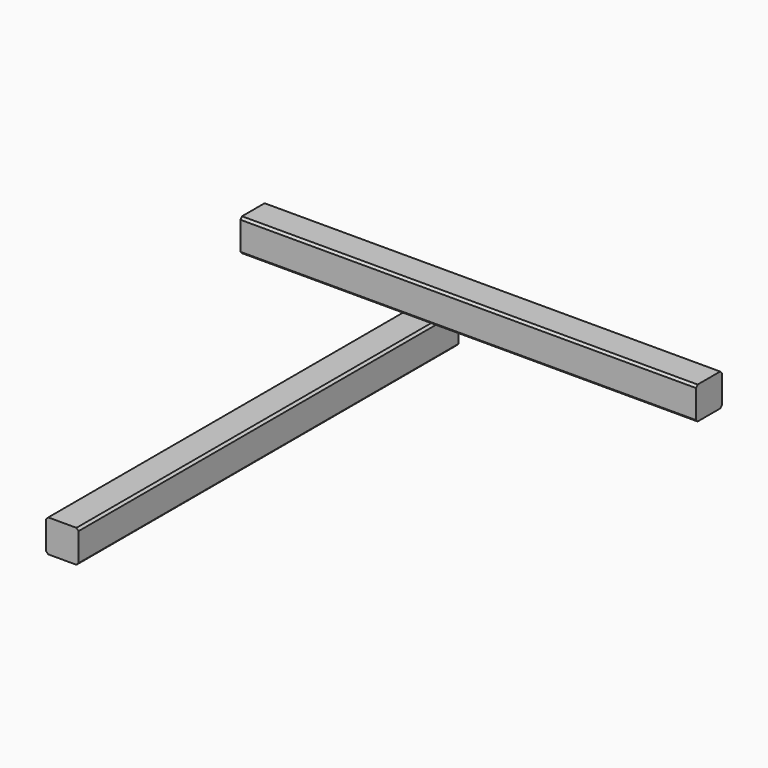
from build123d import *

# Parameters (mm, degrees)
F0_W     = 38.1
F0_H     = 38.1
F1_DEPTH = 277.8125
F2_SIZE  = 2.54
F3_W     = 38.1
F3_H     = 38.1
F4_DEPTH = 533.4
F5_SIZE  = 2.54


with BuildPart() as f1:
    # F0 (on Front) → F1 (new body, symmetric)
    with BuildSketch(Plane.XZ):
        Rectangle(F0_W, F0_H)
    extrude(amount=F1_DEPTH, both=True)

    # F2
    f2_edges = [f1.edges().sort_by_distance(p)[0] for p in [
        (-19.05, 0, 19.05),
        (19.05, 0, 19.05),
        (19.05, 0, -19.05),
        (-19.05, 0, -19.05),
    ]]
    chamfer(f2_edges, length=F2_SIZE)


with BuildPart() as f4:
    # F3 (on Right) → F4 (new body)
    with BuildSketch(Plane.YZ):
        with Locations((1.639307, 208.873585)):
            Rectangle(F3_W, F3_H)
    extrude(amount=F4_DEPTH)

    # F5
    f5_edges = [f4.edges().sort_by_distance(p)[0] for p in [
        (266.7, -17.410693, 189.823585),
        (266.7, 20.689307, 189.823585),
        (266.7, 20.689307, 227.923585),
        (266.7, -17.410693, 227.923585),
    ]]
    chamfer(f5_edges, length=F5_SIZE)


with BuildPart() as f6_1:
    # F6: copy of F4
    add(f4.part.moved(Location((25.4, 0, 0))))


with BuildPart() as f8_1:
    # F8: copy of F4
    add(f4.part)


solid = Compound([f1.part, f4.part])
